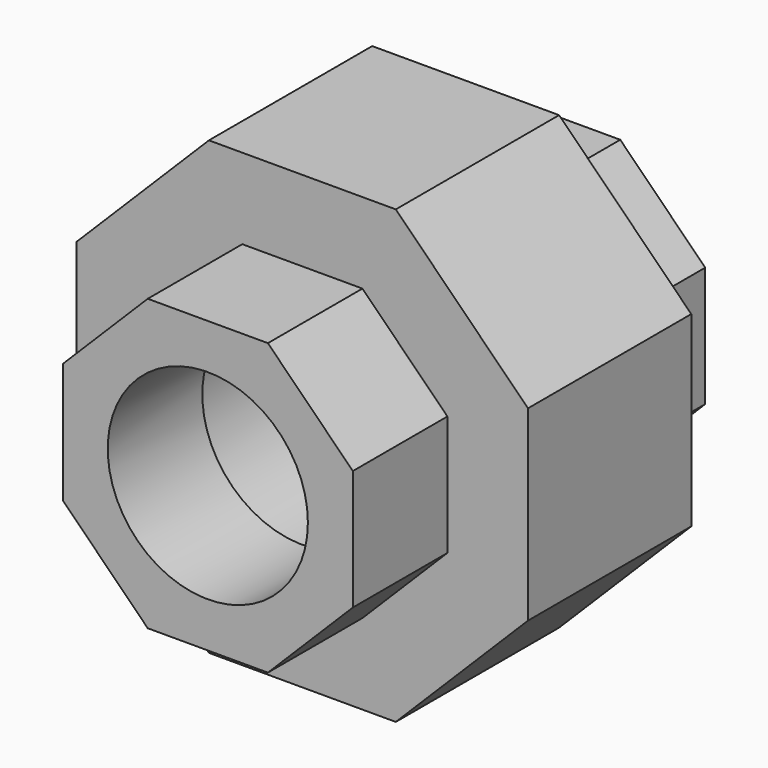
from build123d import *

# Parameters (mm, degrees)
F0_R     = 9.3155
F1_DEPTH = 11
F2_R     = 10.4775
F3_DEPTH = 19
F4_R     = 9.3155
F5_DEPTH = 11


with BuildPart() as f1:
    # F0 (on Front) → F1 (new body)
    with BuildSketch(Plane.XZ):
        Polygon((13.5, -5.591883), (13.5, 5.591883), (5.591883, 13.5), (-5.591883, 13.5), (-13.5, 5.591883), (-13.5, -5.591883), (-5.591883, -13.5), (5.591883, -13.5), align=None)
        Circle(F0_R, mode=Mode.SUBTRACT)
    extrude(amount=F1_DEPTH)

    # F2 (on face) → F3 (join)
    with BuildSketch(Plane(origin=(0, 0, 0), x_dir=(-1, 0, 0), z_dir=(0, 1, 0))):
        Polygon((21, -8.698485), (21, 8.698485), (8.698485, 21), (-8.698485, 21), (-21, 8.698485), (-21, -8.698485), (-8.698485, -21), (8.698485, -21), align=None)
        Circle(F2_R, mode=Mode.SUBTRACT)
    extrude(amount=F3_DEPTH)

    # F4 (on face) → F5 (join)
    with BuildSketch(Plane(origin=(0, 19, 0), x_dir=(-1, 0, 0), z_dir=(0, 1, 0))):
        Polygon((13.5, -5.591883), (13.5, 5.591883), (5.591883, 13.5), (-5.591883, 13.5), (-13.5, 5.591883), (-13.5, -5.591883), (-5.591883, -13.5), (5.591883, -13.5), align=None)
        Circle(F4_R, mode=Mode.SUBTRACT)
    extrude(amount=F5_DEPTH)


solid = f1.part
